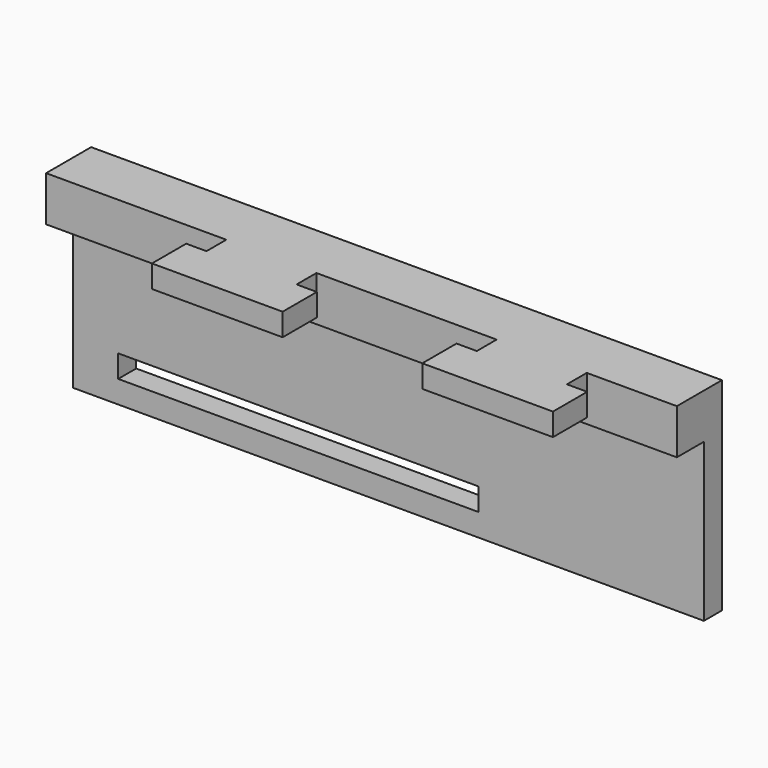
from build123d import *

# Parameters (mm, degrees)
F0_W     = 20
F0_H     = 5
F1_DEPTH = 5
F3_DEPTH = 27.5
F4_DEPTH = 7.5
F5_W     = 4.5
F5_H     = 5
F6_DEPTH = 9.5
F7_W     = 4.5
F7_H     = 5
F8_DEPTH = 9.5


with BuildPart() as f1:
    # F0 (on Front) → F1 (new body)
    with BuildSketch(Plane.XZ):
        Polygon((-75.340211, 45), (-75.340211, 0), (64.659789, 0), (64.659789, 45), (44.659789, 45), (44.659789, 40), (24.659789, 40), (24.659789, 45), (-15.340211, 45), (-15.340211, 40), (-35.340211, 40), (-35.340211, 45), align=None)
        Polygon((14.659789, 5), (-55.340211, 5), (-65.340211, 5), (-65.340211, 10), (-55.340211, 10), (14.659789, 10), align=None, mode=Mode.SUBTRACT)
        with Locations((-25.340211, 32.5)):
            Rectangle(F0_W, F0_H, mode=Mode.SUBTRACT)
        with Locations((34.659789, 32.5)):
            Rectangle(F0_W, F0_H, mode=Mode.SUBTRACT)
    extrude(amount=F1_DEPTH)

    # F0 (on Front) → F3 (join)
    with BuildSketch(Plane.XZ):
        with Locations((-25.340211, 42.5)):
            Rectangle(F0_W, F0_H)
        with Locations((34.659789, 42.5)):
            Rectangle(F0_W, F0_H)
    extrude(amount=F3_DEPTH)

    # F2 (on face) → F4 (join)
    with BuildSketch(Plane.XZ.offset(5)):
        Polygon((-35.340211, 45), (-75.340211, 45), (-75.340211, 35), (-35.340211, 35), (-15.340211, 35), (24.659789, 35), (44.659789, 35), (64.659789, 35), (64.659789, 45), (44.659789, 45), (44.659789, 40), (24.659789, 40), (24.659789, 45), (-15.340211, 45), (-15.340211, 40), (-35.340211, 40), align=None)
    extrude(amount=F4_DEPTH)

    # F5 (on face) → F6 (join)
    with BuildSketch(Plane.XZ.offset(27.5)):
        with Locations((-37.590211, 42.5)):
            Rectangle(F5_W, F5_H)
        with Locations((-13.090211, 42.5)):
            Rectangle(F5_W, F5_H)
    extrude(amount=-F6_DEPTH)

    # F7 (on face) → F8 (join)
    with BuildSketch(Plane.XZ.offset(27.5)):
        with Locations((22.409789, 42.5)):
            Rectangle(F7_W, F7_H)
        with Locations((46.909789, 42.5)):
            Rectangle(F7_W, F7_H)
    extrude(amount=-F8_DEPTH)


solid = f1.part
